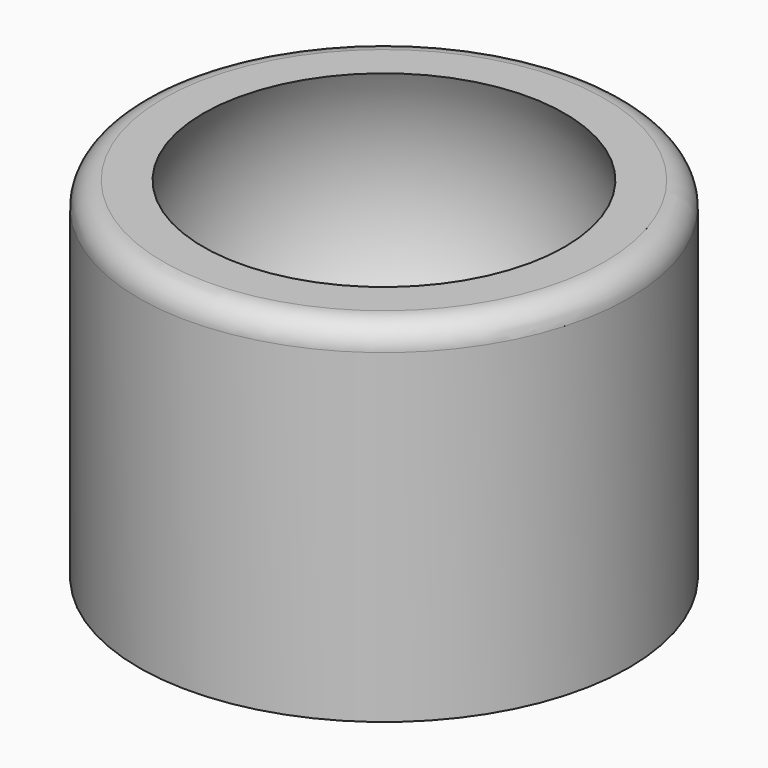
from build123d import *

# Parameters (mm, degrees)
FILLET_R = 2


with BuildPart() as part:
    # Sketch → Revolution (revolve)
    with BuildSketch(Plane.XZ):
        with BuildLine():
            ThreePointArc((0, -17.2), (14.895637, -8.6), (14.895637, 8.6))
            Line((14.895637, 8.6), (20.2, 8.6))
            Line((20.2, 8.6), (20.2, -20.2))
            Line((20.2, -20.2), (0, -20.2))
            Line((0, -20.2), (0, -17.2))
        make_face()
    revolve(axis=Axis((0, 0, 0), (0, 0, 1)))

    # Fillet
    fillet_edges = [part.edges().sort_by_distance(p)[0] for p in [
        (-20.2, 0, 8.6),
    ]]
    fillet(fillet_edges, radius=FILLET_R)


solid = part.part
